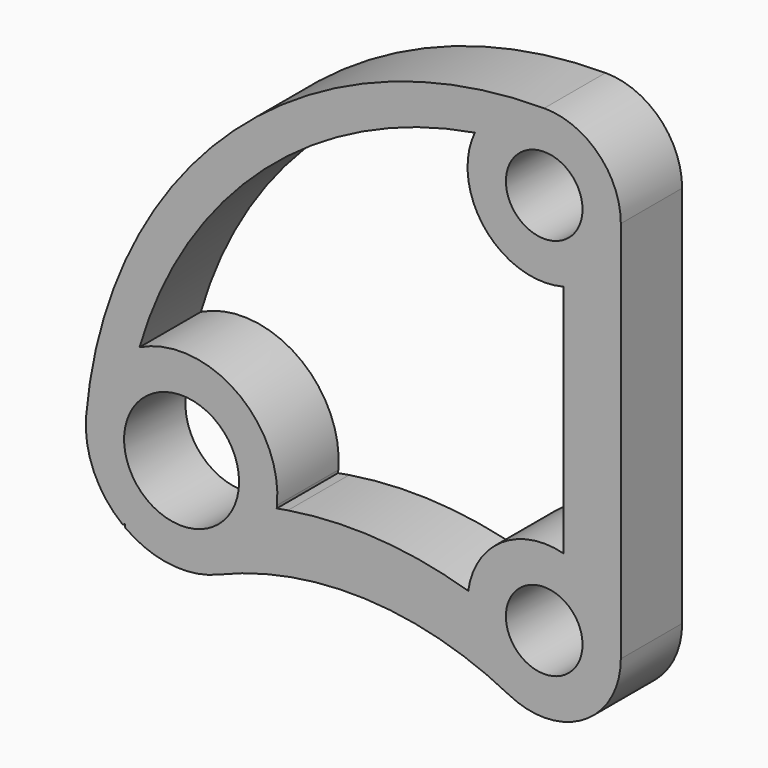
from build123d import *

# Parameters (mm, degrees)
F0_R     = 381
F0_R_2   = 254
F1_DEPTH = 508


with BuildPart() as f1:
    # F0 (on Front) → F1 (new body)
    with BuildSketch(Plane.XZ):
        with BuildLine():
            ThreePointArc((-2158.973337, -375.590953), (-1187.199374, -200.608411), (-232.278772, -451.78598))
            ThreePointArc((-232.278772, -451.78598), (264.63785, -433.625193), (508, 0))
            Line((508, 0), (508, 2540))
            ThreePointArc((508, 2540), (359.210245, 2899.210245), (0, 3048))
            ThreePointArc((0, 3048), (-2059.198953, 2247.221323), (-3036.40144, 265.650704))
            ThreePointArc((-3036.40144, 265.650704), (-2985.916007, -43.438508), (-2793.834553, -290.803896))
            ThreePointArc((-2793.834553, -290.803896), (-2786.832608, -285.981278), (-2779.815325, -281.181006))
            ThreePointArc((-2779.815325, -281.181006), (-2778.685135, -292.13853), (-2777.511752, -303.091513))
            ThreePointArc((-2777.511752, -303.091513), (-2477.740666, -420.375689), (-2158.973337, -375.590953))
        make_face()
        with Locations((-2403.817806, 210.306807)):
            Circle(F0_R, mode=Mode.SUBTRACT)
        Circle(F0_R_2, mode=Mode.SUBTRACT)
        with BuildLine():
            Line((127, 2048.131115), (127, 491.868885))
            ThreePointArc((127, 491.868885), (-283.700841, 421.399849), (-503.510599, 67.387511))
            ThreePointArc((-503.510599, 67.387511), (-1096.67461, 176.037713), (-1699.08507, 148.650682))
            ThreePointArc((-1699.08507, 148.650682), (-1736.195558, 142.441443), (-1773.214755, 135.709277))
            ThreePointArc((-1773.214755, 135.709277), (-1772.151102, 145.328547), (-1771.234173, 154.962911))
            ThreePointArc((-1771.234173, 154.962911), (-2044.379314, 733.784572), (-2682.683819, 780.796726))
            ThreePointArc((-2682.683819, 780.796726), (-1855.833891, 2088.615946), (-459.838222, 2755.9))
            ThreePointArc((-459.838222, 2755.9), (-391.06204, 2215.755523), (127, 2048.131115))
        make_face(mode=Mode.SUBTRACT)
        with Locations((0, 2540)):
            Circle(F0_R_2, mode=Mode.SUBTRACT)
    extrude(amount=F1_DEPTH)


solid = f1.part
